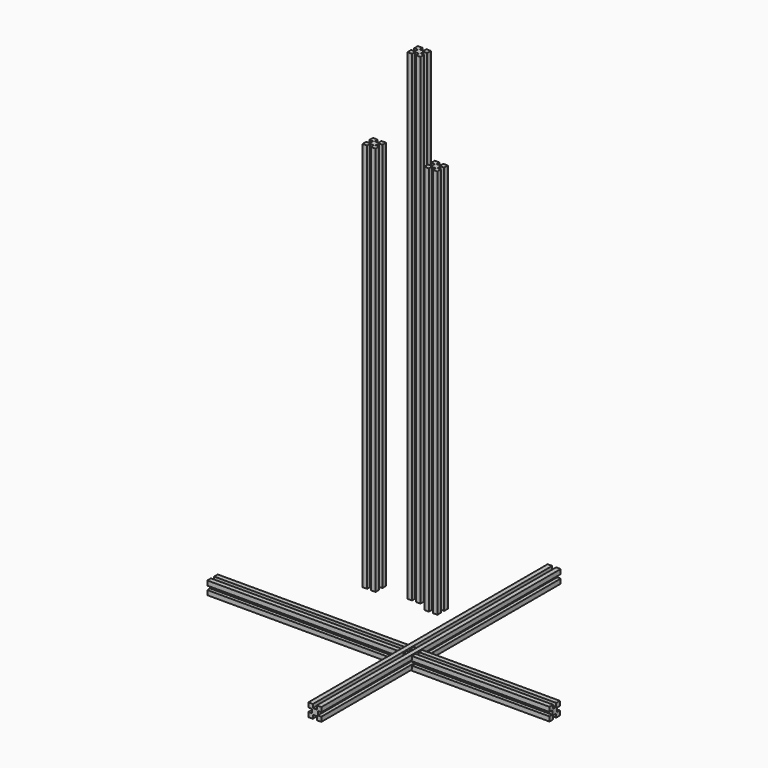
from build123d import *

# Parameters (mm, degrees)
F1_DEPTH = 740
F3_DEPTH = 600
F5_DEPTH = 600
F7_DEPTH = 263
F9_DEPTH = 230


with BuildPart() as f1:
    # F0 (on Top) → F1 (new body)
    with BuildSketch(Plane.XY):
        Polygon((0, 7), (0, 0), (7, 0), (7, 5.5), (13, 5.5), (13, 0), (20, 0), (20, 7), (14.5, 7), (14.5, 13), (20, 13), (20, 20), (13, 20), (13, 14.5), (7, 14.5), (7, 20), (0, 20), (0, 13), (5.5, 13), (5.5, 7), align=None)
    extrude(amount=F1_DEPTH)


with BuildPart() as f3:
    # F2 (on Top) → F3 (new body)
    with BuildSketch(Plane.XY):
        Polygon((-61, -3), (-61, -10), (-54, -10), (-54, -4.5), (-48, -4.5), (-48, -10), (-41, -10), (-41, -3), (-46.5, -3), (-46.5, 3), (-41, 3), (-41, 10), (-48, 10), (-48, 4.5), (-54, 4.5), (-54, 10), (-61, 10), (-61, 3), (-55.5, 3), (-55.5, -3), align=None)
    extrude(amount=F3_DEPTH)


with BuildPart() as f5:
    # F4 (on Top) → F5 (new body)
    with BuildSketch(Plane.XY):
        Polygon((34, -3), (34, -10), (41, -10), (41, -4.5), (47, -4.5), (47, -10), (54, -10), (54, -3), (48.5, -3), (48.5, 3), (54, 3), (54, 10), (47, 10), (47, 4.5), (41, 4.5), (41, 10), (34, 10), (34, 3), (39.5, 3), (39.5, -3), align=None)
    extrude(amount=F5_DEPTH)


with BuildPart() as f7:
    # F6 (on Right) → F7 (new body, symmetric)
    with BuildSketch(Plane.YZ):
        Polygon((-55.878273, -50.887528), (-55.878273, -57.887528), (-48.878273, -57.887528), (-48.878273, -52.387528), (-42.878273, -52.387528), (-42.878273, -57.887528), (-35.878273, -57.887528), (-35.878273, -50.887528), (-41.378273, -50.887528), (-41.378273, -44.887528), (-35.878273, -44.887528), (-35.878273, -37.887528), (-42.878273, -37.887528), (-42.878273, -43.387528), (-48.878273, -43.387528), (-48.878273, -37.887528), (-55.878273, -37.887528), (-55.878273, -44.887528), (-50.378273, -44.887528), (-50.378273, -50.887528), align=None)
    extrude(amount=F7_DEPTH, both=True)


with BuildPart() as f9:
    # F8 (on Front) → F9 (new body, symmetric)
    with BuildSketch(Plane.XZ):
        Polygon((31.594177, -49.305582), (31.594177, -56.305582), (38.594177, -56.305582), (38.594177, -50.805582), (44.594177, -50.805582), (44.594177, -56.305582), (51.594177, -56.305582), (51.594177, -49.305582), (46.094177, -49.305582), (46.094177, -43.305582), (51.594177, -43.305582), (51.594177, -36.305582), (44.594177, -36.305582), (44.594177, -41.805582), (38.594177, -41.805582), (38.594177, -36.305582), (31.594177, -36.305582), (31.594177, -43.305582), (37.094177, -43.305582), (37.094177, -49.305582), align=None)
    extrude(amount=F9_DEPTH, both=True)


solid = Compound([f1.part, f3.part, f5.part, f7.part, f9.part])
